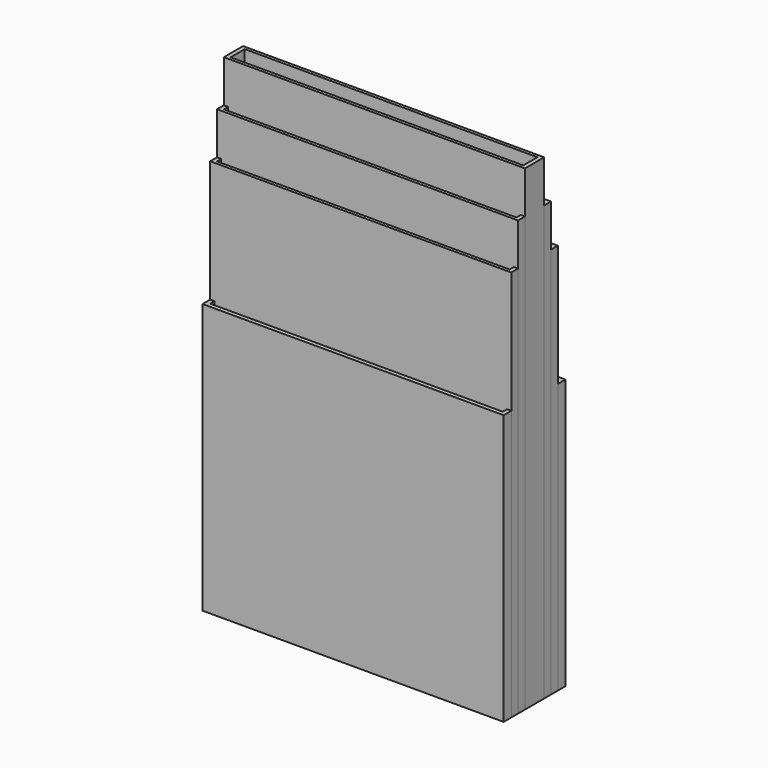
from build123d import *

# Parameters (mm, degrees)
F0_W     = 55.28
F0_H     = 1.01
F1_DEPTH = 1
F2_DEPTH = 9
F0_H_2   = 3.34
F3_DEPTH = 17
F4_DEPTH = 51
F0_H_3   = 0.6
F5_DEPTH = 74
F6_DEPTH = 82
F7_DEPTH = 90


with BuildPart() as f1:
    # F0 (on Top) → F1 (new body)
    with BuildSketch(Plane.XY):
        with Locations((27.64, 3.725)):
            Rectangle(F0_W, F0_H)
        with Locations((27.64, 2.115)):
            Rectangle(F0_W, F0_H)
        with Locations((27.64, -6.655)):
            Rectangle(F0_W, F0_H)
        with Locations((27.64, -8.265)):
            Rectangle(F0_W, F0_H)
    extrude(amount=F1_DEPTH)


with BuildPart() as f2:
    # F0 (on Top) → F2 (new body)
    with BuildSketch(Plane.XY):
        with Locations((27.64, 0.505)):
            Rectangle(F0_W, F0_H)
        with Locations((27.64, -5.045)):
            Rectangle(F0_W, F0_H)
    extrude(amount=F2_DEPTH)


with BuildPart() as f3:
    # F0 (on Top) → F3 (new body)
    with BuildSketch(Plane.XY):
        with Locations((27.64, -2.27)):
            Rectangle(F0_W, F0_H_2)
    extrude(amount=F3_DEPTH)


with BuildPart() as f4:
    # F0 (on Top) → F4 (new body)
    with BuildSketch(Plane.XY):
        Polygon((-0.8, 3.22), (0, 3.22), (0, 4.23), (55.28, 4.23), (55.28, 3.22), (56.08, 3.22), (56.08, 5.03), (-0.8, 5.03), align=None)
        Polygon((56.08, -9.57), (56.08, -7.76), (55.28, -7.76), (55.28, -8.77), (0, -8.77), (0, -7.76), (-0.8, -7.76), (-0.8, -9.57), align=None)
    extrude(amount=F4_DEPTH)


with BuildPart() as f5:
    # F0 (on Top) → F5 (new body)
    with BuildSketch(Plane.XY):
        Polygon((-0.8, 1.61), (0, 1.61), (0, 2.62), (0, 3.22), (-0.8, 3.22), (-0.8, 2.72), align=None)
        with Locations((27.64, 2.92)):
            Rectangle(F0_W, F0_H_3)
        Polygon((55.28, 2.62), (55.28, 1.61), (56.08, 1.61), (56.08, 2.483085), (56.08, 3.22), (55.28, 3.22), align=None)
        Polygon((56.08, -7.011401), (56.08, -6.15), (55.28, -6.15), (55.28, -7.16), (55.28, -7.76), (56.08, -7.76), align=None)
        with Locations((27.64, -7.46)):
            Rectangle(F0_W, F0_H_3)
        Polygon((0, -7.16), (0, -6.15), (-0.8, -6.15), (-0.8, -7.36), (-0.8, -7.76), (0, -7.76), align=None)
    extrude(amount=F5_DEPTH)


with BuildPart() as f6:
    # F0 (on Top) → F6 (new body)
    with BuildSketch(Plane.XY):
        Polygon((-0.8, 0), (0, 0), (0, 1.01), (0, 1.61), (-0.8, 1.61), (-0.8, 1.06), align=None)
        with Locations((27.64, 1.31)):
            Rectangle(F0_W, F0_H_3)
        Polygon((55.28, 1.01), (55.28, 0), (56.08, 0), (56.08, 1.61), (55.28, 1.61), align=None)
        Polygon((56.08, -4.54), (55.28, -4.54), (55.28, -5.55), (55.28, -6.15), (56.08, -6.15), align=None)
        with Locations((27.64, -5.85)):
            Rectangle(F0_W, F0_H_3)
        Polygon((0, -5.55), (0, -4.54), (-0.8, -4.54), (-0.8, -5.7), (-0.8, -6.15), (0, -6.15), align=None)
    extrude(amount=F6_DEPTH)


with BuildPart() as f7:
    # F0 (on Top) → F7 (new body)
    with BuildSketch(Plane.XY):
        Polygon((0, -0.6), (0, 0), (-0.8, 0), (-0.8, -0.6), (-0.8, -4.04), (-0.8, -4.54), (0, -4.54), (0, -3.94), align=None)
        with Locations((27.64, -0.3)):
            Rectangle(F0_W, F0_H_3)
        Polygon((56.08, 0), (55.28, 0), (55.28, -0.6), (55.28, -3.94), (55.28, -4.54), (56.08, -4.54), (56.08, -3.855519), align=None)
        with Locations((27.64, -4.24)):
            Rectangle(F0_W, F0_H_3)
    extrude(amount=F7_DEPTH)


solid = Compound([f1.part, f2.part, f3.part, f4.part, f5.part, f6.part, f7.part])
